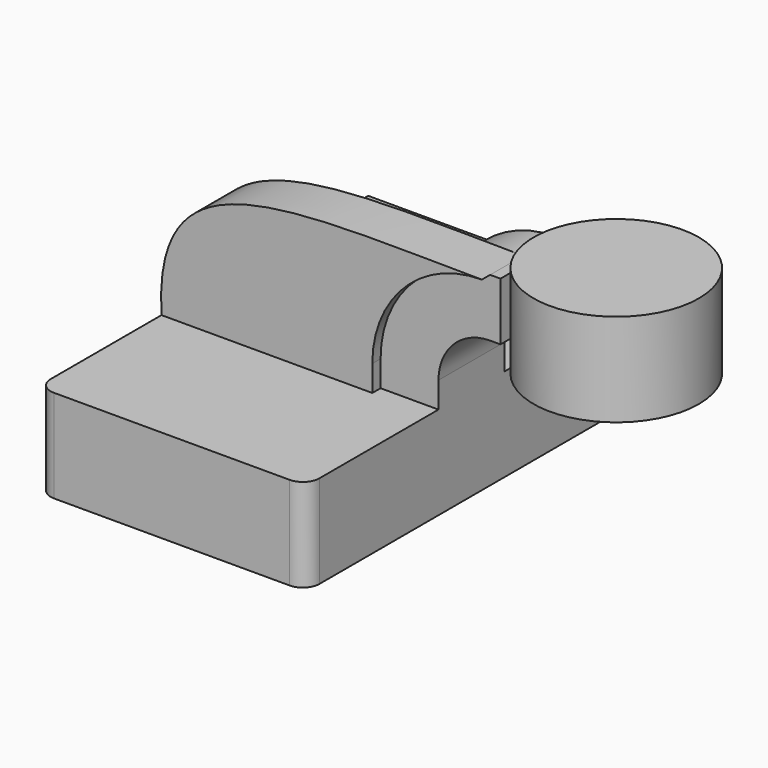
from build123d import *

# Parameters (mm, degrees)
F1_DEPTH = 63.5
F2_DEPTH = 12.7
F3_DEPTH = 15.875
F5_R     = 5.08


with BuildPart() as f1:
    # F0 (on Front) → F1 (new body, symmetric)
    with BuildSketch(Plane.XZ):
        Polygon((-41.275, -14.2875), (41.275, -14.2875), (41.275, 14.2875), (23.495, 14.2875), (-41.275, 14.2875), align=None)
    extrude(amount=F1_DEPTH, both=True)

    # F0 (on Front) → F2 (join, symmetric)
    with BuildSketch(Plane.XZ):
        with BuildLine():
            Line((23.495, 14.2875), (41.275, 14.2875))
            Line((41.275, 14.2875), (41.275, 22.2377))
            ThreePointArc((41.275, 22.2377), (45.92468, 33.46302), (57.15, 38.1127))
            Line((57.15, 38.1127), (60.325, 38.1127))
            Line((60.325, 38.1127), (60.325, 55.8927))
            Line((60.325, 55.8927), (57.15, 55.8927))
            ThreePointArc((57.15, 55.8927), (33.352321, 46.035379), (23.495, 22.2377))
            Line((23.495, 22.2377), (23.495, 14.2875))
        make_face()
    extrude(amount=F2_DEPTH, both=True)

    # F0 (on Front) → F3 (join)
    with BuildSketch(Plane.XZ):
        with BuildLine():
            add(Edge.make_bspline(
                [(-41.275, 14.2875), (-44.044573, 60.048796), (-4.34476, 56.230828), (57.15, 55.8927)],
                knots=[0, 0, 0, 0, 106.857257, 106.857257, 106.857257, 106.857257], degree=3))
            Line((-41.275, 14.2875), (23.495, 14.2875))
            Line((23.495, 14.2875), (23.495, 22.2377))
            ThreePointArc((23.495, 22.2377), (33.352321, 46.035379), (57.15, 55.8927))
        make_face()
    extrude(amount=F3_DEPTH)

    # F0 (on Front) → F4 (revolve)
    with BuildSketch(Plane.XZ):
        Polygon((85.725, 61.9125), (85.725, 55.8927), (85.725, 38.1127), (85.725, 33.3375), (111.125, 33.3375), (111.125, 61.9125), align=None)
    revolve(axis=Axis((85.725, 0, 47.625), (0, 0, -1)))

    # F5
    f5_edges = [f1.edges().sort_by_distance(p)[0] for p in [
        (-41.275, -63.5, 0),
        (41.275, -63.5, 0),
    ]]
    fillet(f5_edges, radius=F5_R)


solid = f1.part
